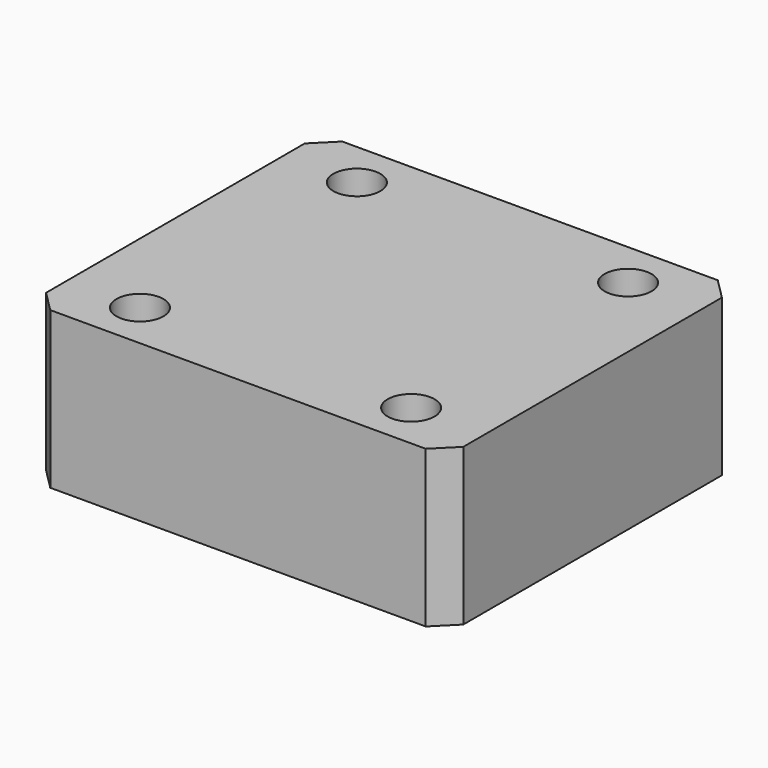
from build123d import *

# Parameters (mm, degrees)
SKETCH_W              = 40
SKETCH_H              = 35
PAD_DEPTH             = 15
SKETCH001_R           = 2.25
HOLE_DEPTH            = 25
CHAMFER_SIZE          = 2
CLONE_PLACEMENT_ANGLE = 180


with BuildPart() as part:
    # Sketch → Pad (new body)
    with BuildSketch(Plane.XY):
        Rectangle(SKETCH_W, SKETCH_H)
    extrude(amount=-PAD_DEPTH)

    # Sketch001 → Hole (cut)
    with BuildSketch(Plane.XY):
        with Locations((-13, 13)):
            Circle(SKETCH001_R)
        with Locations((13, 13)):
            Circle(SKETCH001_R)
        with Locations((13, -13)):
            Circle(SKETCH001_R)
        with Locations((-13, -13)):
            Circle(SKETCH001_R)
    extrude(amount=-HOLE_DEPTH, mode=Mode.SUBTRACT)

    # Chamfer
    chamfer_edges = [part.edges().sort_by_distance(p)[0] for p in [
        (-20, -17.5, -7.5),
        (20, -17.5, -7.5),
        (-20, 17.5, -7.5),
        (20, 17.5, -7.5),
    ]]
    chamfer(chamfer_edges, length=CHAMFER_SIZE)


with BuildPart() as part_1:
    # Clone placement: moved
    add(part.part.moved(Location((18, -20, 0))).rotate(Axis((18, -20, 0), (0, 0, 1)), CLONE_PLACEMENT_ANGLE))


solid = part_1.part
